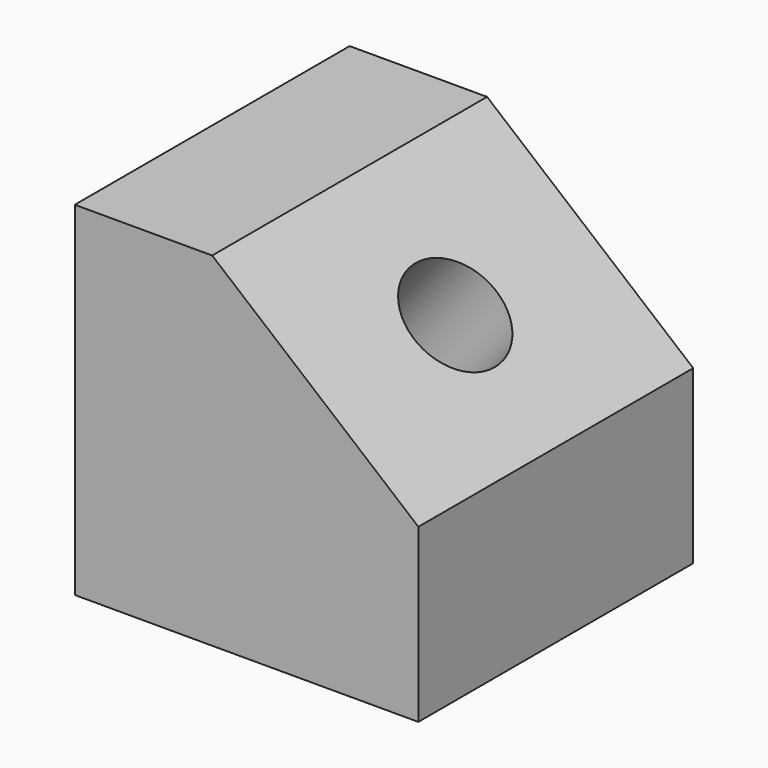
from build123d import *

# Parameters (mm, degrees)
F0_W     = 100
F0_H     = 100
F1_DEPTH = 100
F3_DEPTH = 100.001
F4_R     = 15
F5_DEPTH = 102.4305039463


with BuildPart() as f1:
    # F0 (on Front) → F1 (new body)
    with BuildSketch(Plane.XZ):
        with Locations((50, 50)):
            Rectangle(F0_W, F0_H)
    extrude(amount=-F1_DEPTH)

    # F2 (on face) → F3 (cut, through all)
    with BuildSketch(Plane.XZ):
        Polygon((40, 110), (40, 100), (100, 50), (110, 50), (110, 110), align=None)
    extrude(amount=-F3_DEPTH, mode=Mode.SUBTRACT)

    # F4 (on face) → F5 (cut, through all)
    with BuildSketch(Plane(origin=(65.5737704918, 0, 78.6885245902), x_dir=(0.7682212796, 0, -0.6401843997), z_dir=(0.6401843997, 0, 0.7682212796))):
        with Locations((6.7104112174, 50)):
            Circle(F4_R)
    extrude(amount=-F5_DEPTH, mode=Mode.SUBTRACT)


solid = f1.part
